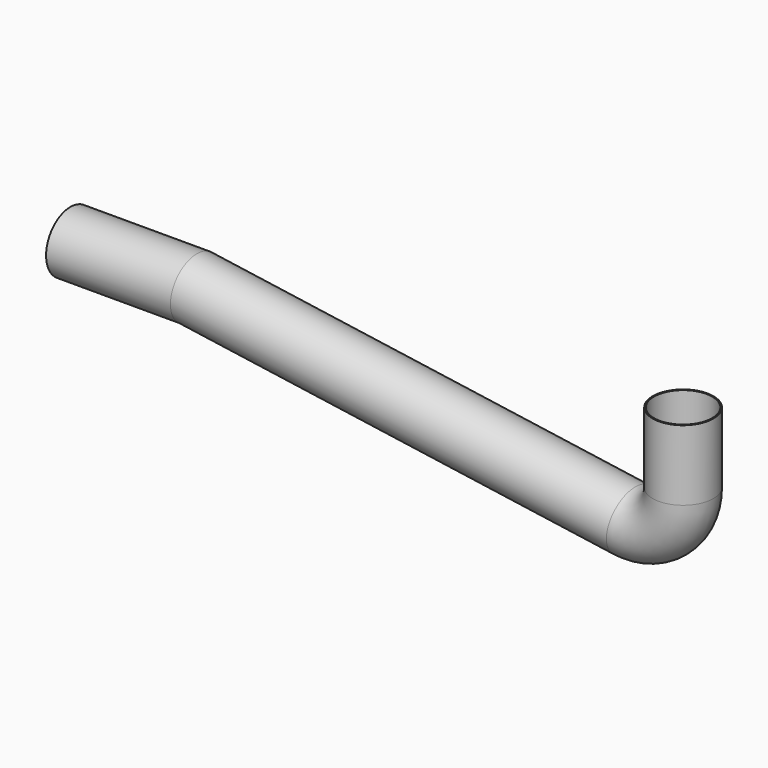
from build123d import *

# Parameters (mm, degrees)
F0_R   = 6
F0_R_2 = 5.75


with BuildPart() as f2:
    # F2: sweep along a path in F1
    with BuildLine(Plane.XZ) as f2_path:
        Line((-6, 0), (-6, -13.9078725958))
        ThreePointArc((-6, -13.9078725958), (-7.0345199545, -16.1743430215), (-9.4245921271, -16.8776741928))
        Line((-9.4245921271, -16.8776741928), (-96, -4.5))
        Line((-96, -4.5), (-121, -4.5))
    # F0 (on Top) → F2 (sweep)
    with BuildSketch(Plane.XY):
        Circle(F0_R)
        Circle(F0_R_2, mode=Mode.SUBTRACT)
    sweep(path=f2_path.line, transition=Transition.RIGHT)


solid = f2.part
